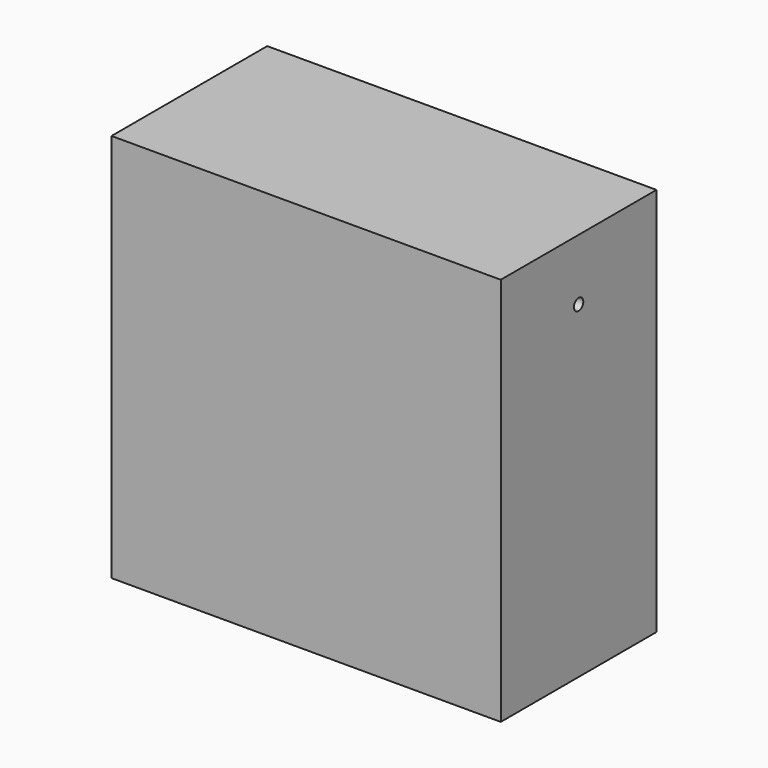
from build123d import *

# Parameters (mm, degrees)
F0_W     = 200
F0_H     = 200
F1_DEPTH = 100
F2_R     = 3
F3_DEPTH = 200


with BuildPart() as f1:
    # F0 (on Front) → F1 (new body)
    with BuildSketch(Plane.XZ):
        Rectangle(F0_W, F0_H)
    extrude(amount=F1_DEPTH)

    # F2 (on face) → F3 (cut)
    with BuildSketch(Plane(origin=(-100, 0, 0), x_dir=(0, -1, 0), z_dir=(-1, 0, 0))):
        with Locations((50, 68.531044)):
            Circle(F2_R)
    extrude(amount=-F3_DEPTH, mode=Mode.SUBTRACT)


solid = f1.part
